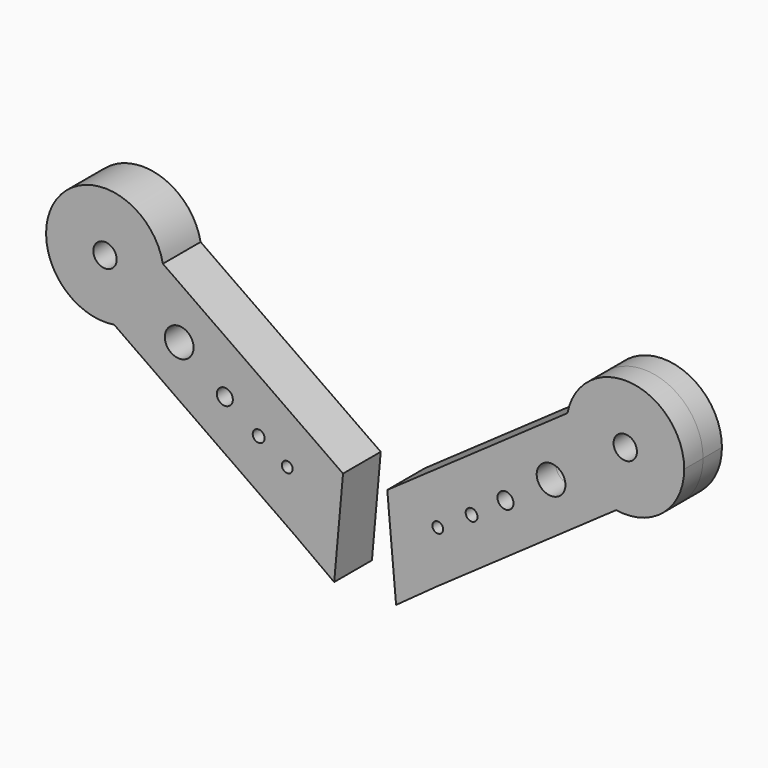
from build123d import *

# Parameters (mm, degrees)
F0_R     = 1.4505145473
F0_R_2   = 1.5996890997
F0_R_3   = 2.1610628891
F0_R_4   = 3.869128391
F0_R_5   = 3.1480655083
F1_DEPTH = 6.35
F0_R_6   = 1.4505139655


with BuildPart() as f1:
    # F0 (on Front) → F1 (new body, symmetric)
    with BuildSketch(Plane.XZ):
        with BuildLine():
            Line((-19.0721291621, -4.8905307363), (-5.9601718272, 13.8352849961))
            Line((-5.9601718272, 13.8352849961), (-54.4794007435, 47.8088148315))
            Line((-54.4794007435, 47.8088148315), (-54.4836036345, 47.8028124811))
            ThreePointArc((-54.4836036345, 47.8028124811), (-54.2643710734, 46.2930731563), (-54.1910679004, 44.7692613604))
            ThreePointArc((-54.1910679004, 44.7692613604), (-57.9960981809, 34.4575468584), (-67.5871568417, 29.088999087))
            Line((-67.5871568417, 29.088999087), (-67.5913580785, 29.082999099))
            Line((-67.5913580785, 29.082999099), (-19.0721291621, -4.8905307363))
        make_face()
        with Locations((-20.9856368601, 10.4873506352)):
            Circle(F0_R, mode=Mode.SUBTRACT)
        with Locations((-28.6789310125, 15.3199037078)):
            Circle(F0_R_2, mode=Mode.SUBTRACT)
        with Locations((-37.7953101531, 21.7032611032)):
            Circle(F0_R_3, mode=Mode.SUBTRACT)
        with Locations((-50.0816566344, 30.6150268633)):
            Circle(F0_R_4, mode=Mode.SUBTRACT)
        Polygon((-8.3329752088, -12.6680368558), (-5.9601718272, 13.8352849961), (-19.0721291621, -4.8905307363), align=None)
        with BuildLine():
            ThreePointArc((-54.1910679004, 44.7692613604), (-54.2643710734, 46.2930731563), (-54.4836036345, 47.8028124811))
            Line((-54.4836036345, 47.8028124811), (-67.5871568417, 29.088999087))
            ThreePointArc((-67.5871568417, 29.088999087), (-57.9960981809, 34.4575468584), (-54.1910679004, 44.7692613604))
        make_face()
        with BuildLine():
            Line((-67.5871568417, 29.088999087), (-54.4836036345, 47.8028124811))
            ThreePointArc((-54.4836036345, 47.8028124811), (-83.0701066035, 53.8747872875), (-67.5871568417, 29.088999087))
        make_face()
        with Locations((-70.0660679004, 44.7692613604)):
            Circle(F0_R_5, mode=Mode.SUBTRACT)
    extrude(amount=F1_DEPTH, both=True)


with BuildPart() as f1b:
    # F0 (on Front) → F1, piece 2 (new body, symmetric)
    with BuildSketch(Plane.XZ):
        Polygon((5.9601718272, 13.8352849961), (8.3329752088, -12.6680368558), (19.0721291621, -4.8905307363), align=None)
        with BuildLine():
            Line((54.4794007435, 47.8088148315), (5.9601718272, 13.8352849961))
            Line((5.9601718272, 13.8352849961), (19.0721291621, -4.8905307363))
            Line((19.0721291621, -4.8905307363), (67.5913580785, 29.082999099))
            Line((67.5913580785, 29.082999099), (67.5871568417, 29.088999087))
            ThreePointArc((67.5871568417, 29.088999087), (57.0620291973, 35.6637354333), (54.4836036345, 47.8028124811))
            Line((54.4836036345, 47.8028124811), (54.4794007435, 47.8088148315))
        make_face()
        with Locations((19.5636637509, 9.3546882272)):
            Circle(F0_R_6, mode=Mode.SUBTRACT)
        with Locations((28.6789310125, 15.3199037078)):
            Circle(F0_R_2, mode=Mode.SUBTRACT)
        with Locations((37.7953101531, 21.7032611032)):
            Circle(F0_R_3, mode=Mode.SUBTRACT)
        with Locations((50.0816566344, 30.6150268633)):
            Circle(F0_R_4, mode=Mode.SUBTRACT)
        with BuildLine():
            Line((67.5871568417, 29.088999087), (54.4836036345, 47.8028124811))
            ThreePointArc((54.4836036345, 47.8028124811), (57.0620291973, 35.6637354333), (67.5871568417, 29.088999087))
        make_face()
        with BuildLine():
            ThreePointArc((85.9410679004, 44.7692613604), (71.5898796963, 60.5709581874), (54.4836036345, 47.8028124811))
            Line((54.4836036345, 47.8028124811), (67.5871568417, 29.088999087))
            ThreePointArc((67.5871568417, 29.088999087), (80.3777824024, 32.699291641), (85.9410679004, 44.7692613604))
        make_face()
        with Locations((70.0660679004, 44.7692613604)):
            Circle(F0_R_5, mode=Mode.SUBTRACT)
    extrude(amount=F1_DEPTH, both=True)


solid = Compound([f1.part, f1b.part])
